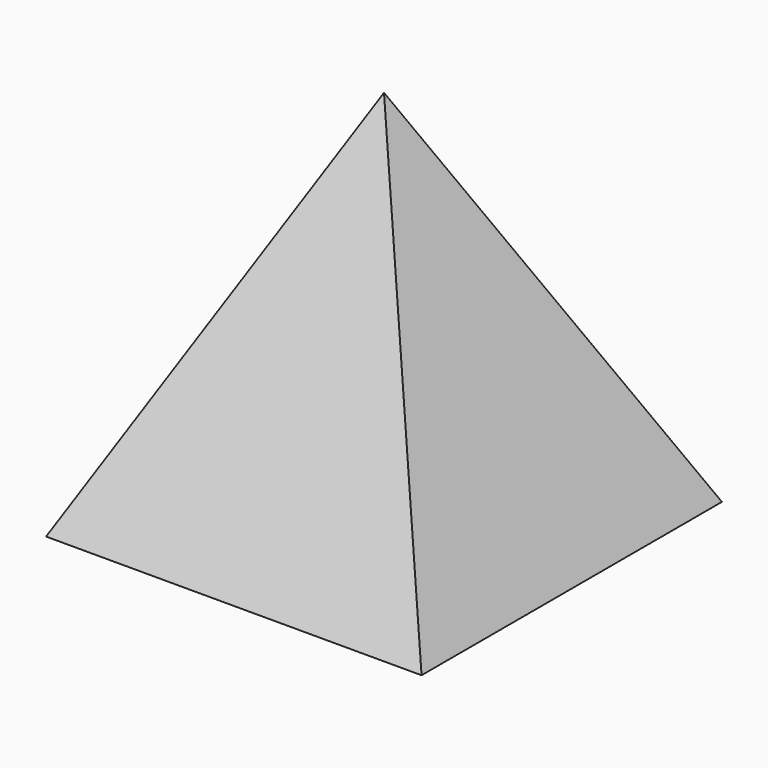
from build123d import *

# Parameters (mm, degrees)
F1_W     = 25.4
F1_H     = 25.4
F2_DEPTH = 25.4
F5_DEPTH = 25.4
F6_DEPTH = 25.4


with BuildPart() as f2:
    # F1 (on Top) → F2 (new body)
    with BuildSketch(Plane.XY):
        Rectangle(F1_W, F1_H)
    extrude(amount=F2_DEPTH)

    # F3 (on face) → F5 (cut)
    with BuildSketch(Plane.XZ.offset(12.7)):
        Polygon((-12.7, 25.4), (-12.7, 0), (0, 25.4), align=None)
        Polygon((12.7, 25.4), (0, 25.4), (12.7, 0), align=None)
    extrude(amount=-F5_DEPTH, mode=Mode.SUBTRACT)

    # F4 (on face) → F6 (cut)
    with BuildSketch(Plane.YZ.offset(12.7)):
        Polygon((-12.7, 25.4), (-12.7, 0), (0, 25.4), align=None)
        Polygon((12.7, 25.4), (0, 25.4), (12.7, 0), align=None)
    extrude(amount=-F6_DEPTH, mode=Mode.SUBTRACT)


solid = f2.part
